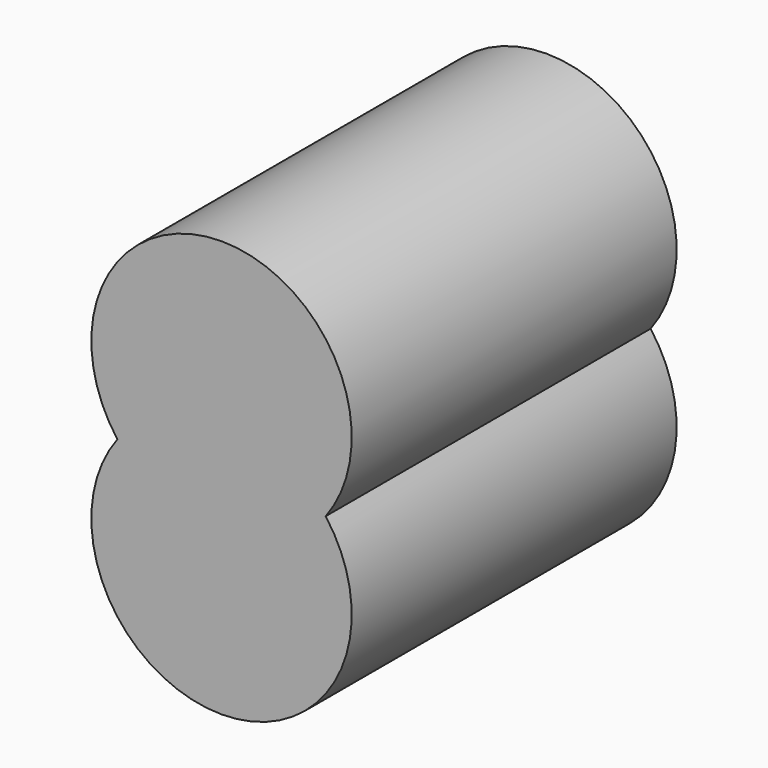
from build123d import *

# Parameters (mm, degrees)
F0_R      = 25
F1_DEPTH  = 75
F2_W      = 30.5
F2_H      = 30.5
F3_DEPTH  = 72
F4_R      = 25
F5_DEPTH  = 3
F6_R      = 25
F7_DEPTH  = 75
F8_W      = 30.5
F8_H      = 30.5
F9_DEPTH  = 72
F10_R     = 25
F11_DEPTH = 3


with BuildPart() as f1:
    # F0 (on Front) → F1 (new body)
    with BuildSketch(Plane.XZ):
        Circle(F0_R)
    extrude(amount=-F1_DEPTH)

    # F2 (on face) → F3 (cut, through all)
    with BuildSketch(Plane(origin=(0, 75, 0), x_dir=(-1, 0, 0), z_dir=(0, 1, 0))):
        Rectangle(F2_W, F2_H)
    extrude(amount=-F3_DEPTH, mode=Mode.SUBTRACT)

    # F4 (on face) → F5 (join)
    with BuildSketch(Plane(origin=(0, 75, 0), x_dir=(-1, 0, 0), z_dir=(0, 1, 0))):
        Circle(F4_R)
    extrude(amount=F5_DEPTH)

    # F6 (on Front) → F7 (join)
    with BuildSketch(Plane.XZ):
        with Locations((0, -30)):
            Circle(F6_R)
    extrude(amount=-F7_DEPTH)

    # F8 (on face) → F9 (cut, through all)
    with BuildSketch(Plane(origin=(0, 75, 0), x_dir=(-1, 0, 0), z_dir=(0, 1, 0))):
        with Locations((0, -30)):
            Rectangle(F8_W, F8_H)
    extrude(amount=-F9_DEPTH, mode=Mode.SUBTRACT)

    # F10 (on face) → F11 (join)
    with BuildSketch(Plane(origin=(0, 75, 0), x_dir=(-1, 0, 0), z_dir=(0, 1, 0))):
        with Locations((0, -30)):
            Circle(F10_R)
    extrude(amount=F11_DEPTH)


solid = f1.part
